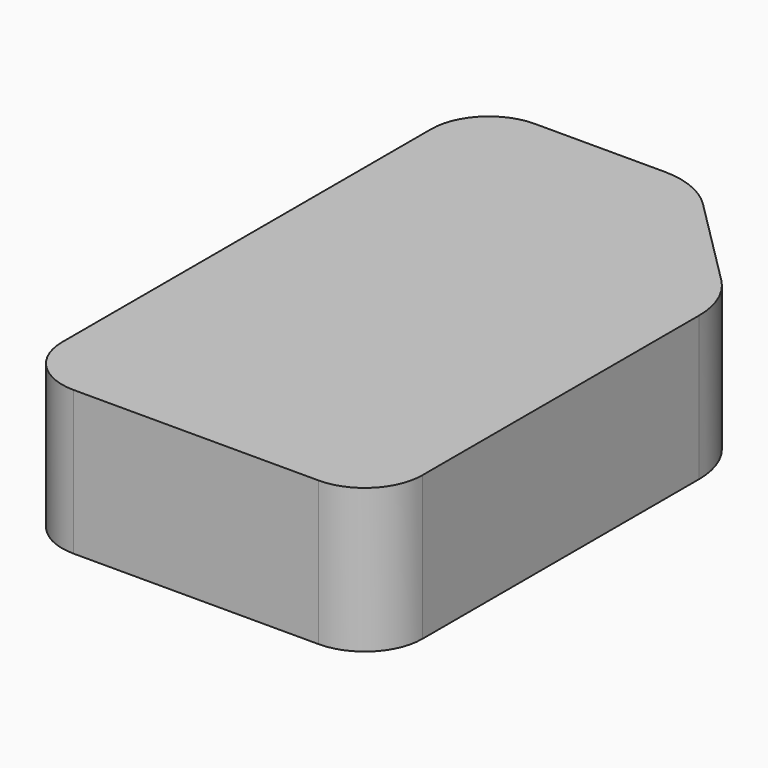
from build123d import *

# Parameters (mm, degrees)
PAD_DEPTH = 20


with BuildPart() as part:
    # Sketch → Pad (new body)
    with BuildSketch(Plane.XY):
        with BuildLine():
            Line((50, 7.999979), (50, 56.000005))
            ThreePointArc((50, 56.000005), (49.141961, 60.313654), (46.698475, 63.970588))
            Line((33.970551, 76.698508), (46.698475, 63.970588))
            ThreePointArc((33.970551, 76.698508), (30.313627, 79.141971), (26, 80))
            Line((8, 80), (26, 80))
            ThreePointArc((8, 80), (2.343146, 77.656854), (0, 72))
            Line((0, 72), (0, 8))
            ThreePointArc((0, 8), (2.343146, 2.343146), (8, 0))
            Line((8, 0), (42, 0))
            ThreePointArc((42, 0), (47.656847, 2.343138), (50, 7.999979))
        make_face()
    extrude(amount=PAD_DEPTH)


solid = part.part
